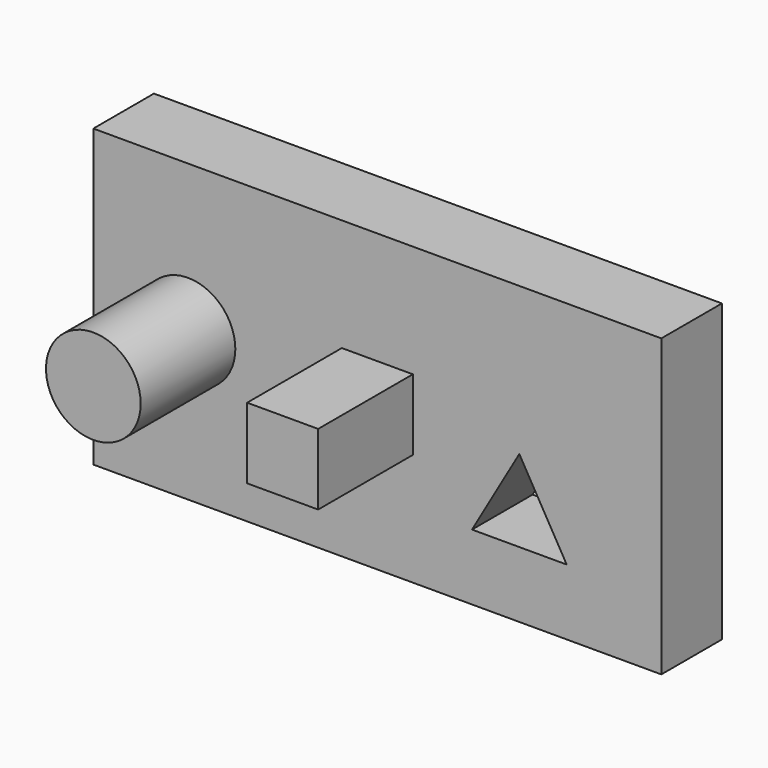
from build123d import *

# Parameters (mm, degrees)
F0_W          = 152.4
F0_H          = 79.375
F0_R          = 12.7
F0_W_2        = 19.05
F0_H_2        = 19.05
F1_DEPTH      = 20.32
F2_DEPTH      = 20.32
F2_DEPTH_BACK = 31.75
F3_DEPTH      = 31.75


with BuildPart() as f1:
    # F0 (on Front) → F1 (new body)
    with BuildSketch(Plane.XZ):
        with Locations((-31.75, 0)):
            Rectangle(F0_W, F0_H)
        Polygon((-6.35, -21.9970452561), (6.35, 0), (19.05, -21.9970452561), align=None, mode=Mode.SUBTRACT)
        with Locations((-82.55, 0)):
            Circle(F0_R, mode=Mode.SUBTRACT)
        with Locations((-31.75, 0)):
            Rectangle(F0_W_2, F0_H_2, mode=Mode.SUBTRACT)
    extrude(amount=-F1_DEPTH)

    # F0 (on Front) → F2 (join, two sides)
    with BuildSketch(Plane.XZ) as f2_sk:
        with Locations((-82.55, 0)):
            Circle(F0_R)
    extrude(amount=-F2_DEPTH)
    extrude(f2_sk.sketch, amount=F2_DEPTH_BACK)

    # F0 (on Front) → F3 (join)
    with BuildSketch(Plane.XZ):
        with Locations((-31.75, 0)):
            Rectangle(F0_W_2, F0_H_2)
    extrude(amount=F3_DEPTH)


solid = f1.part
